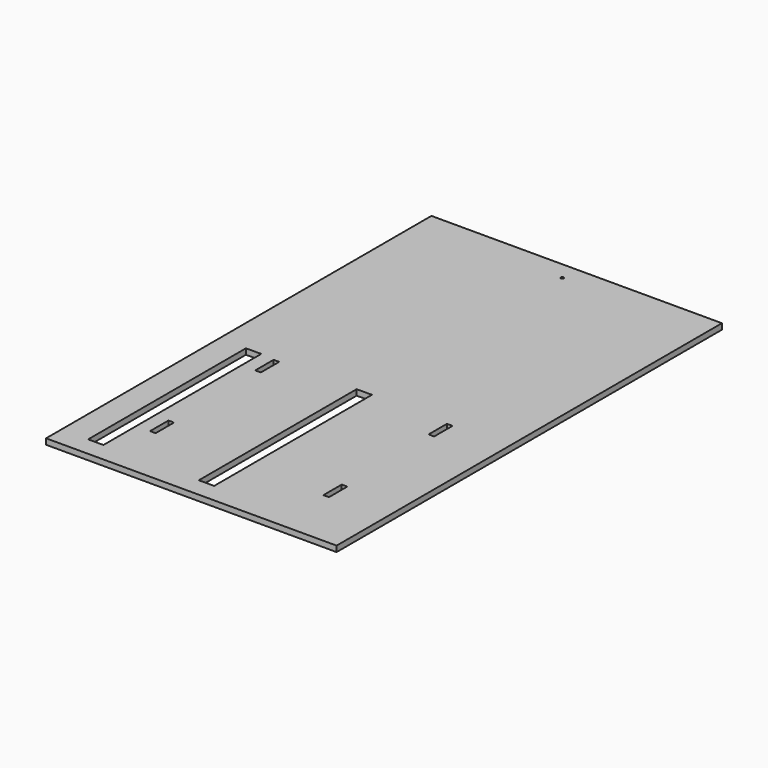
from build123d import *

# Parameters (mm, degrees)
F0_W     = 1600.2
F0_H     = 965.2
F0_W_2   = 76.2
F0_H_2   = 18.542
F0_W_3   = 655.32
F0_H_3   = 50.8
F0_R     = 4.699
F1_DEPTH = 19.05
F2_ANGLE = 90


with BuildPart() as f1:
    # F0 (on Top) → F1 (new body)
    with BuildSketch(Plane.XY):
        with Locations((363.7183239174, 338.137499957)):
            Rectangle(F0_W, F0_H)
        with Locations((488.823281765, 50.228499957)):
            Rectangle(F0_W_2, F0_H_2, mode=Mode.SUBTRACT)
        with Locations((772.6583239174, -30.162500043)):
            Rectangle(F0_W_3, F0_H_3, mode=Mode.SUBTRACT)
        with Locations((925.6530362129, 50.228499957)):
            Rectangle(F0_W_2, F0_H_2, mode=Mode.SUBTRACT)
        with Locations((772.6583239174, 337.7060310411)):
            Rectangle(F0_W_3, F0_H_3, mode=Mode.SUBTRACT)
        with Locations((-376.5342487335, 338.137499957)):
            Circle(F0_R, mode=Mode.SUBTRACT)
        with Locations((488.823281765, 626.046499957)):
            Rectangle(F0_W_2, F0_H_2, mode=Mode.SUBTRACT)
        with Locations((925.6530362129, 626.046499957)):
            Rectangle(F0_W_2, F0_H_2, mode=Mode.SUBTRACT)
    extrude(amount=F1_DEPTH)


with BuildPart() as f1_1:
    # F2: moved
    add(f1.part.rotate(Axis((-436.3816760826, -144.462500043, 9.525), (0, 0, -1)), F2_ANGLE))


solid = f1_1.part
